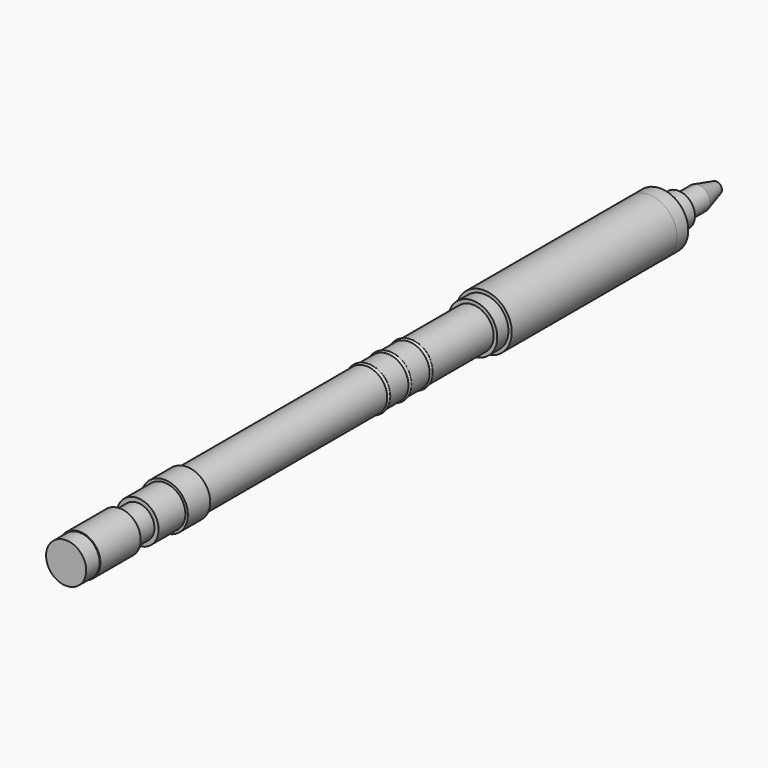
from build123d import *

# Parameters (mm, degrees)
F0_R      = 3.75
F1_DEPTH  = 75
F2_R      = 4.4
F3_DEPTH  = 2.5
F4_R      = 5
F5_DEPTH  = 37
F6_R      = 5
F7_DEPTH  = 2.5
F8_R      = 3
F9_DEPTH  = 4
F10_R     = 3
F11_DEPTH = 0.5
F11_TAPER = 60
F12_R     = 2.1
F13_DEPTH = 4
F14_R     = 2.1
F15_DEPTH = 4
F15_TAPER = 15
F16_R     = 3
F17_DEPTH = 4
F18_R     = 3.75
F19_DEPTH = 9
F20_R     = 3.6
F21_DEPTH = 3
F22_R     = 0.35
F25_R     = 4.2
F25_R_2   = 3.75
F26_DEPTH = 5


with BuildPart() as f1:
    # F0 (on Front) → F1 (new body)
    with BuildSketch(Plane.XZ):
        Circle(F0_R)
    extrude(amount=F1_DEPTH)

    # F2 (on face) → F3 (join)
    with BuildSketch(Plane(origin=(0, 0, 0), x_dir=(-1, 0, 0), z_dir=(0, 1, 0))):
        Circle(F2_R)
    extrude(amount=F3_DEPTH)


with BuildPart() as f5:
    # F4 (on face) → F5 (new body)
    with BuildSketch(Plane(origin=(0, 2.5, 0), x_dir=(-1, 0, 0), z_dir=(0, 1, 0))):
        Circle(F4_R)
    extrude(amount=F5_DEPTH)


with BuildPart() as f7:
    # F6 (on face) → F7 (new body)
    with BuildSketch(Plane(origin=(0, 39.5, 0), x_dir=(-1, 0, 0), z_dir=(0, 1, 0))):
        Circle(F6_R)
    extrude(amount=F7_DEPTH)

    # F8 (on face) → F9 (join)
    with BuildSketch(Plane(origin=(0, 42, 0), x_dir=(-1, 0, 0), z_dir=(0, 1, 0))):
        Circle(F8_R)
    extrude(amount=F9_DEPTH)

    # F10 (on face) → F11 (join)
    with BuildSketch(Plane(origin=(0, 46, 0), x_dir=(-1, 0, 0), z_dir=(0, 1, 0))):
        Circle(F10_R)
    extrude(amount=F11_DEPTH, taper=F11_TAPER)

    # F12 (on face) → F13 (join)
    with BuildSketch(Plane(origin=(0, 46.5, 0), x_dir=(-1, 0, 0), z_dir=(0, 1, 0))):
        Circle(F12_R)
    extrude(amount=F13_DEPTH)

    # F14 (on face) → F15 (join)
    with BuildSketch(Plane(origin=(0, 50.5, 0), x_dir=(-1, 0, 0), z_dir=(0, 1, 0))):
        Circle(F14_R)
    extrude(amount=F15_DEPTH, taper=F15_TAPER)


with BuildPart() as f17:
    # F16 (on face) → F17 (new body)
    with BuildSketch(Plane.XZ.offset(75)):
        Circle(F16_R)
    extrude(amount=F17_DEPTH)


with BuildPart() as f19:
    # F18 (on face) → F19 (new body)
    with BuildSketch(Plane.XZ.offset(79)):
        Circle(F18_R)
    extrude(amount=F19_DEPTH)


with BuildPart() as f21:
    # F20 (on face) → F21 (new body)
    with BuildSketch(Plane.XZ.offset(88)):
        Circle(F20_R)
    extrude(amount=F21_DEPTH)


with BuildPart() as f23:
    # F22 (on Top) → F23 (revolve)
    with BuildSketch(Plane.XY):
        with Locations((3.6, -14)):
            Circle(F22_R)
    revolve(axis=Axis((0, 0, 0), (0, 1, 0)))


with BuildPart() as f23b:
    # F22 (on Top) → F23, piece 2 (revolve)
    with BuildSketch(Plane.XY):
        with Locations((3.6, -18.75)):
            Circle(F22_R)
    revolve(axis=Axis((0, 0, 0), (0, 1, 0)))


with BuildPart() as f23c:
    # F22 (on Top) → F23, piece 3 (revolve)
    with BuildSketch(Plane.XY):
        with Locations((3.6, -23.5)):
            Circle(F22_R)
    revolve(axis=Axis((0, 0, 0), (0, 1, 0)))


with BuildPart() as f26:
    # F25 (on offset) → F26 (new body)
    with BuildSketch(Plane.XZ.offset(69)):
        Circle(F25_R)
        Circle(F25_R_2, mode=Mode.SUBTRACT)
    extrude(amount=-F26_DEPTH)


solid = Compound([f1.part, f5.part, f7.part, f17.part, f19.part, f21.part, f23.part, f23b.part, f23c.part, f26.part])
